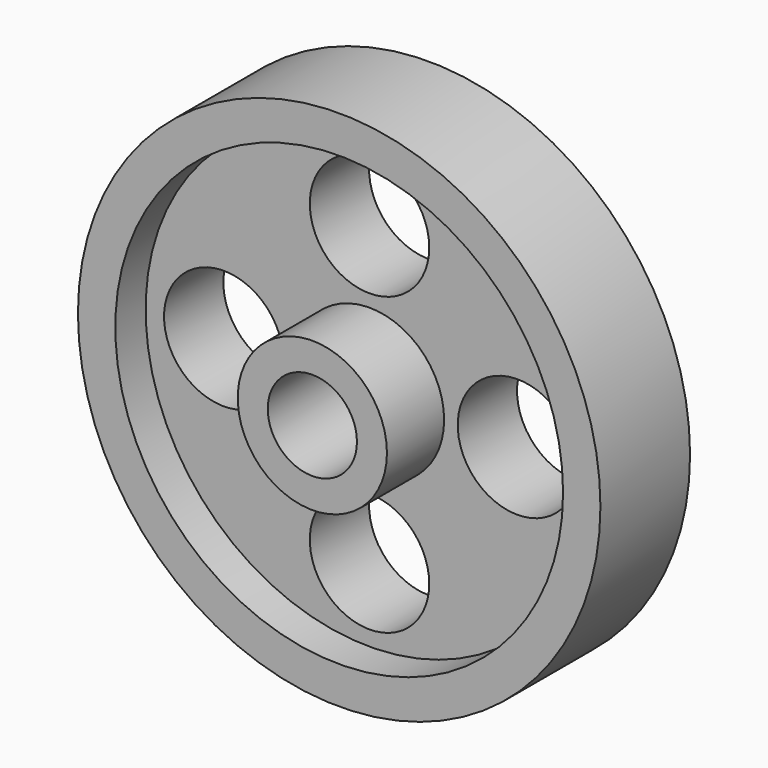
from build123d import *

# Parameters (mm, degrees)
F0_R     = 35.0012
F0_R_2   = 29.9974
F1_DEPTH = 15.0114
F0_R_3   = 9.9949
F0_R_4   = 5.975246
F2_DEPTH = 19.5072
F0_R_5   = 8.001
F3_DEPTH = 9.9314


with BuildPart() as f1:
    # F0 (on Front) → F1 (new body)
    with BuildSketch(Plane.XZ):
        Circle(F0_R)
        Circle(F0_R_2, mode=Mode.SUBTRACT)
    extrude(amount=F1_DEPTH)


with BuildPart() as f2:
    # F0 (on Front) → F2 (new body)
    with BuildSketch(Plane.XZ):
        Circle(F0_R_3)
        Circle(F0_R_4, mode=Mode.SUBTRACT)
    extrude(amount=F2_DEPTH)


with BuildPart() as f3:
    # F0 (on Front) → F3 (new body)
    with BuildSketch(Plane.XZ):
        Circle(F0_R_2)
        with Locations((0, -19.966066)):
            Circle(F0_R_5, mode=Mode.SUBTRACT)
        with Locations((-19.528853, 0)):
            Circle(F0_R_5, mode=Mode.SUBTRACT)
        Circle(F0_R_3, mode=Mode.SUBTRACT)
        with Locations((19.820329, 0)):
            Circle(F0_R_5, mode=Mode.SUBTRACT)
        with Locations((0, 19.674592)):
            Circle(F0_R_5, mode=Mode.SUBTRACT)
    extrude(amount=F3_DEPTH)


solid = Compound([f1.part, f2.part, f3.part])
